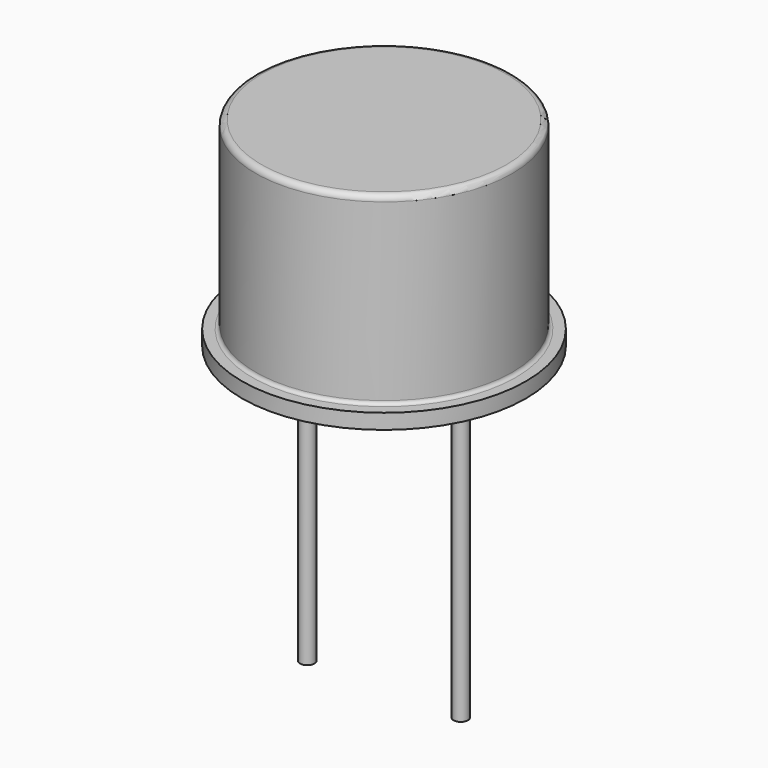
from build123d import *

# Parameters (mm, degrees)
SKETCH_R     = 0.24
PAD_DEPTH    = 10
PAD003_DEPTH = 0.5


with BuildPart() as pad:
    # Sketch → Pad (new body)
    with BuildSketch(Plane.XY.offset(5)):
        Circle(SKETCH_R)
        with Locations((5.08, 0)):
            Circle(SKETCH_R)
    extrude(amount=-PAD_DEPTH)


with BuildPart() as revolution:
    # Sketch003 → Revolution (revolve)
    with BuildSketch(Plane.XZ):
        with BuildLine():
            Line((2.54, 5), (-2.16, 5))
            Line((-2.16, 5), (-2.16, 5.5))
            Line((-2.16, 5.5), (-1.82504, 5.502752))
            ThreePointArc((-1.82504, 5.502752), (-1.743637, 5.537059), (-1.71, 5.61874))
            Line((-1.71, 5.61874), (-1.71, 11.405088))
            ThreePointArc((-1.515088, 11.6), (-1.652912, 11.542912), (-1.71, 11.405088))
            Line((-1.515088, 11.6), (2.54, 11.6))
            Line((2.54, 11.6), (2.54, 5))
        make_face()
    revolve(axis=Axis((2.54, 0, 2.550668), (0, 0, 1)))


with BuildPart() as pad003:
    # Sketch004 → Pad003 (new body)
    with BuildSketch(Plane.XY.offset(5)):
        Polygon((2.844056, 0.304056), (-1.186453, 4.334565), (-1.794565, 3.726453), (2.235944, -0.304056), align=None)
    extrude(amount=PAD003_DEPTH)


solid = Compound([pad.part, revolution.part, pad003.part])
